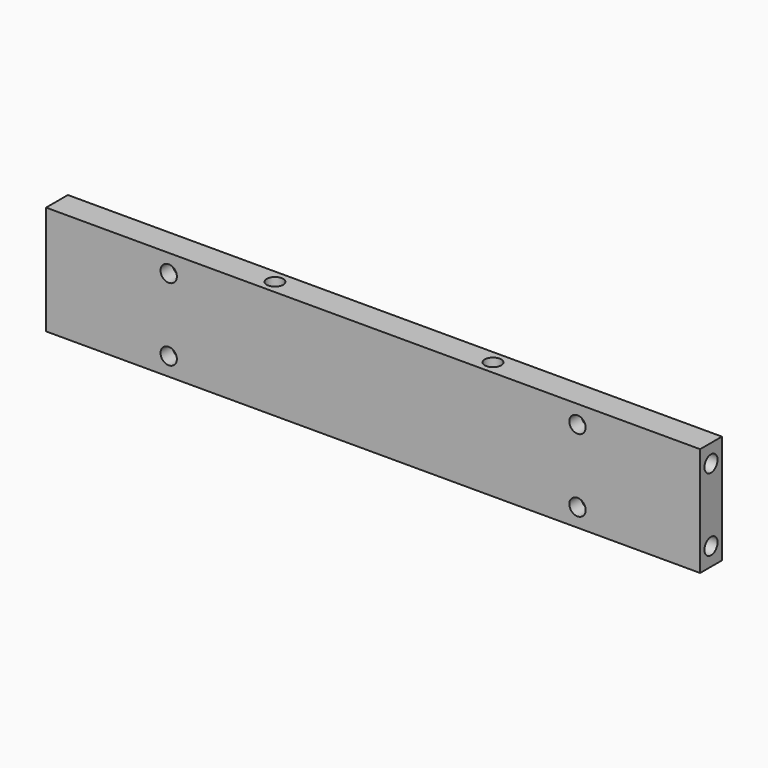
from build123d import *

# Parameters (mm, degrees)
SKETCH006_W     = 228.6
SKETCH006_H     = 38.1
SKETCH006_R     = 2.8575
PAD004_DEPTH    = 9.525
SKETCH077_R     = 3.683
POCKET006_DEPTH = 4.318
SKETCH083_R     = 2.8575
POCKET011_DEPTH = 6.096
SKETCH084_R     = 2.8575
POCKET012_DEPTH = 6.096
SKETCH088_R     = 2.8575
POCKET016_DEPTH = 6.096
SKETCH089_R     = 2.8575
POCKET017_DEPTH = 6.096


with BuildPart() as part:
    # Sketch006 → Pad004 (new body)
    with BuildSketch(Plane.XZ):
        Rectangle(SKETCH006_W, SKETCH006_H)
        with Locations((-71.4375, 12.7)):
            Circle(SKETCH006_R, mode=Mode.SUBTRACT)
        with Locations((-71.4375, -12.7)):
            Circle(SKETCH006_R, mode=Mode.SUBTRACT)
        with Locations((71.4375, -12.7)):
            Circle(SKETCH006_R, mode=Mode.SUBTRACT)
        with Locations((71.4375, 12.7)):
            Circle(SKETCH006_R, mode=Mode.SUBTRACT)
    extrude(amount=PAD004_DEPTH)

    # Sketch077 (on Face9 of Pad004) → Pocket006 (cut)
    with BuildSketch(Plane(origin=(0, 0, 0), x_dir=(1, 0, 0), z_dir=(0, 1, 0))):
        with Locations((71.4375, 12.7)):
            Circle(SKETCH077_R)
        with Locations((71.4375, -12.7)):
            Circle(SKETCH077_R)
        with Locations((-71.4375, -12.7)):
            Circle(SKETCH077_R)
        with Locations((-71.4375, 12.7)):
            Circle(SKETCH077_R)
    extrude(amount=-POCKET006_DEPTH, mode=Mode.SUBTRACT)

    # Sketch083 (on Face6 of Pocket006) → Pocket011 (cut)
    with BuildSketch(Plane(origin=(114.3, 0, 0), x_dir=(0, 0, 1), z_dir=(1, 0, 0))):
        with Locations((-12.7, 4.7625)):
            Circle(SKETCH083_R)
        with Locations((12.7, 4.7625)):
            Circle(SKETCH083_R)
    extrude(amount=-POCKET011_DEPTH, mode=Mode.SUBTRACT)

    # Sketch084 (on Face1 of Pocket006) → Pocket012 (cut)
    with BuildSketch(Plane(origin=(-114.3, 0, 0), x_dir=(0, 0, -1), z_dir=(-1, 0, 0))):
        with Locations((-12.7, 4.7625)):
            Circle(SKETCH084_R)
        with Locations((12.7, 4.7625)):
            Circle(SKETCH084_R)
    extrude(amount=-POCKET012_DEPTH, mode=Mode.SUBTRACT)

    # Sketch088 (on Face2 of Pocket012) → Pocket016 (cut)
    with BuildSketch(Plane(origin=(0, 0, 19.05), x_dir=(-1, 0, 0), z_dir=(0, 0, 1))):
        with Locations((-38.1, 4.7625)):
            Circle(SKETCH088_R)
        with Locations((38.1, 4.7625)):
            Circle(SKETCH088_R)
    extrude(amount=-POCKET016_DEPTH, mode=Mode.SUBTRACT)

    # Sketch089 (on Face5 of Pocket016) → Pocket017 (cut)
    with BuildSketch(Plane(origin=(0, 0, -19.05), x_dir=(1, 0, 0), z_dir=(0, 0, -1))):
        with Locations((38.1, 4.7625)):
            Circle(SKETCH089_R)
        with Locations((-38.1, 4.7625)):
            Circle(SKETCH089_R)
    extrude(amount=-POCKET017_DEPTH, mode=Mode.SUBTRACT)


with BuildPart() as part_1:
    # Body004 placement: moved
    add(part.part.moved(Location((-67.691, 98.679, 0))))


solid = part_1.part
